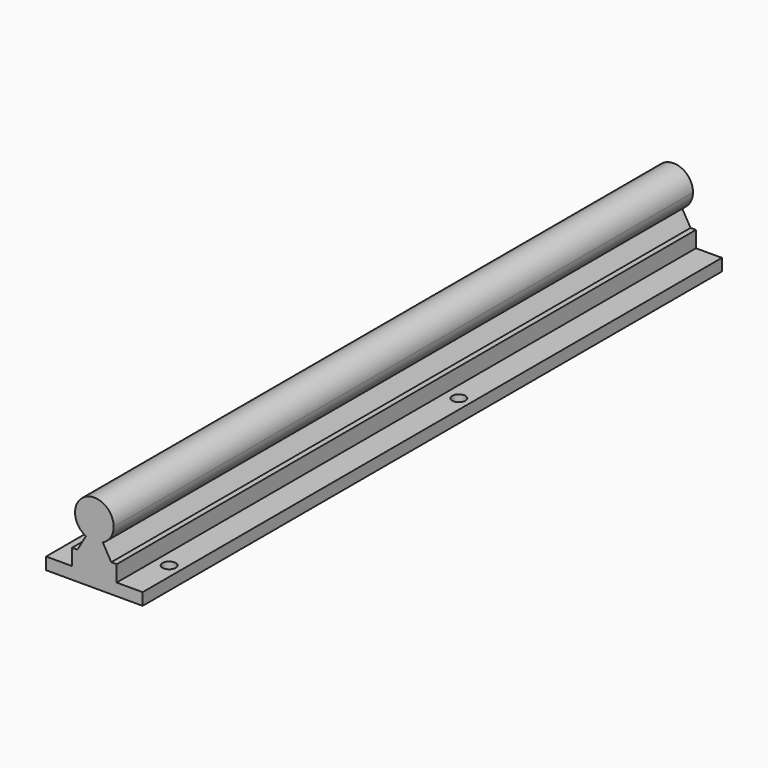
from build123d import *

# Parameters (mm, degrees)
F1_DEPTH = 150
F2_R     = 2.75
F3_DEPTH = 5.001


with BuildPart() as f1:
    # F0 (on Front) → F1 (new body, symmetric)
    with BuildSketch(Plane.XZ):
        with BuildLine():
            ThreePointArc((3.487119, -7.2), (6.778531, -4.248708), (8, 0))
            ThreePointArc((8, 0), (-4.248708, 6.778531), (-3.487119, -7.2))
            ThreePointArc((-3.487119, -7.2), (0, -8), (3.487119, -7.2))
        make_face()
        with BuildLine():
            ThreePointArc((3.487119, -7.2), (0, -8), (-3.487119, -7.2))
            Line((-3.487119, -7.2), (-7.008956, -13.3))
            Line((-7.008956, -13.3), (-9.25, -13.3))
            Line((-9.25, -13.3), (-9.25, -20))
            Line((-9.25, -20), (-20, -20))
            Line((-20, -20), (-20, -25))
            Line((-20, -25), (20, -25))
            Line((20, -25), (20, -20))
            Line((20, -20), (9.25, -20))
            Line((9.25, -20), (9.25, -13.3))
            Line((9.25, -13.3), (7.008956, -13.3))
            Line((7.008956, -13.3), (3.487119, -7.2))
        make_face()
    extrude(amount=F1_DEPTH, both=True)

    # F2 (on face) → F3 (cut, through all)
    with BuildSketch(Plane.XY.offset(-20)):
        with Locations((-15, -130)):
            Circle(F2_R)
        with Locations((15, -130)):
            Circle(F2_R)
        with Locations((-15, 20)):
            Circle(F2_R)
        with Locations((15, 20)):
            Circle(F2_R)
        with Locations((-15, 170)):
            Circle(F2_R)
        with Locations((15, 170)):
            Circle(F2_R)
        with Locations((-15, 320)):
            Circle(F2_R)
        with Locations((15, 320)):
            Circle(F2_R)
        with Locations((-15, 470)):
            Circle(F2_R)
        with Locations((15, 470)):
            Circle(F2_R)
        with Locations((-15, 620)):
            Circle(F2_R)
        with Locations((15, 620)):
            Circle(F2_R)
        with Locations((-15, 770)):
            Circle(F2_R)
        with Locations((15, 770)):
            Circle(F2_R)
        with Locations((-15, 920)):
            Circle(F2_R)
        with Locations((15, 920)):
            Circle(F2_R)
        with Locations((-15, 1070)):
            Circle(F2_R)
        with Locations((15, 1070)):
            Circle(F2_R)
    extrude(amount=-F3_DEPTH, mode=Mode.SUBTRACT)


solid = f1.part
